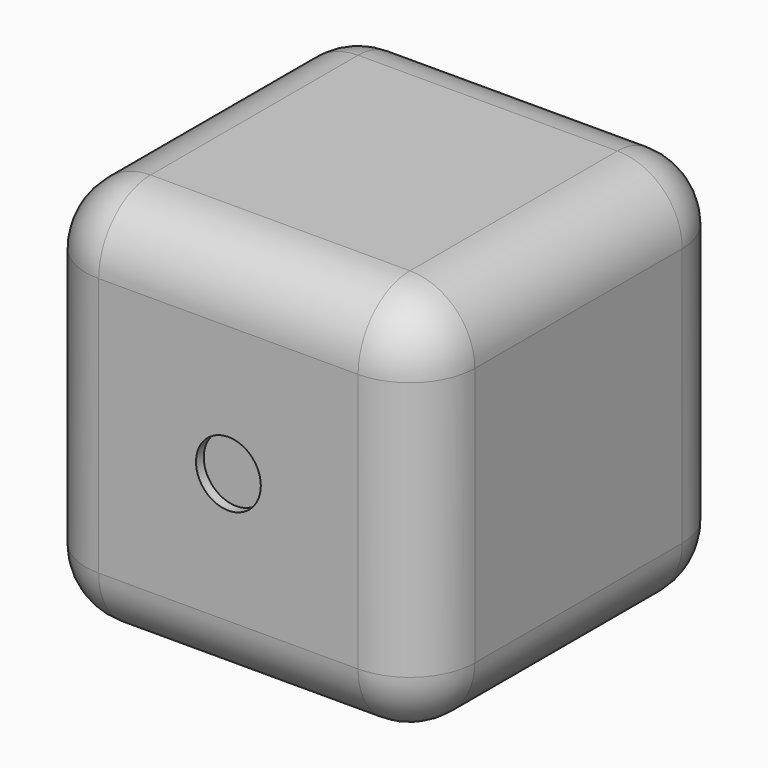
from build123d import *

# Parameters (mm, degrees)
F0_W          = 12
F0_H          = 12
F1_DEPTH      = 6
F1_DEPTH_BACK = 6
F2_R          = 2
F3_R          = 1
F4_DEPTH      = 0.3
F5_R          = 1
F6_DEPTH      = 0.3


with BuildPart() as f1:
    # F0 (on Front) → F1 (new body, two sides)
    with BuildSketch(Plane.XZ) as f1_sk:
        Rectangle(F0_W, F0_H)
    extrude(amount=F1_DEPTH)
    extrude(f1_sk.sketch, amount=-F1_DEPTH_BACK)

    # F2
    f2_edges = [f1.edges().sort_by_distance(p)[0] for p in [
        (6, 0, -6),
        (0, 6, 6),
        (-6, 6, 0),
        (0, 6, -6),
        (6, 6, 0),
        (6, 0, 6),
        (-6, 0, 6),
        (0, -6, -6),
        (-6, 0, -6),
        (-6, -6, 0),
        (0, -6, 6),
        (6, -6, 0),
    ]]
    fillet(f2_edges, radius=F2_R)

    # F3 (on face) → F4 (cut)
    with BuildSketch(Plane.XZ.offset(6)):
        Circle(F3_R)
    extrude(amount=-F4_DEPTH, mode=Mode.SUBTRACT)

    # F5 (on face) → F6 (cut)
    with BuildSketch(Plane(origin=(0, 6, 0), x_dir=(-1, 0, 0), z_dir=(0, 1, 0))):
        with Locations((-2, 2.5)):
            Circle(F5_R)
        with Locations((2, 2.5)):
            Circle(F5_R)
        with Locations((2, 0)):
            Circle(F5_R)
        with Locations((2, -2.5)):
            Circle(F5_R)
        with Locations((-2, 0)):
            Circle(F5_R)
        with Locations((-2, -2.5)):
            Circle(F5_R)
    extrude(amount=-F6_DEPTH, mode=Mode.SUBTRACT)


solid = f1.part
